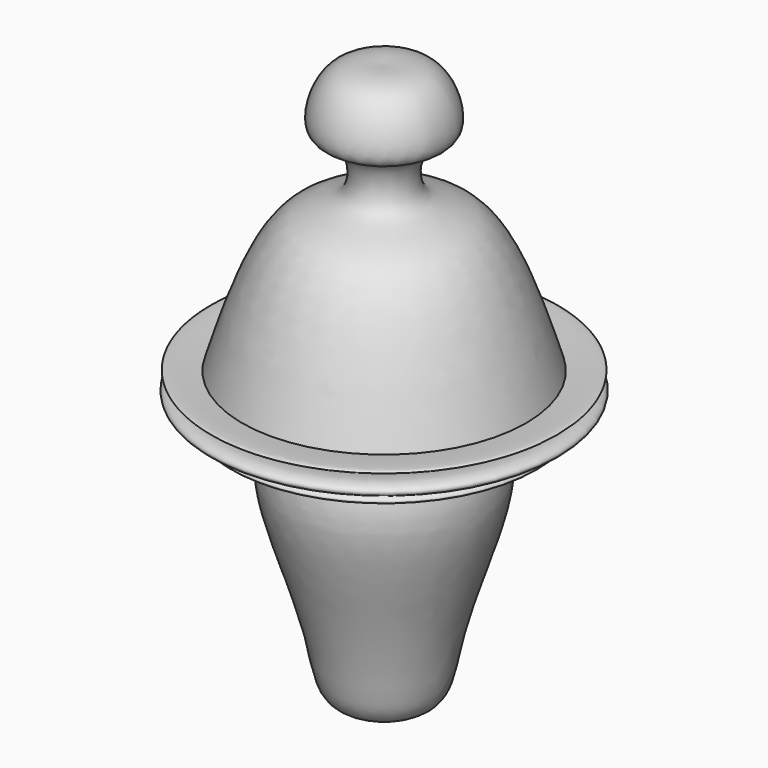
from build123d import *


with BuildPart() as f1:
    # F0 (on Front) → F1 (revolve)
    with BuildSketch(Plane.XZ):
        with BuildLine():
            add(Edge.make_bspline(
                [(0, 41.1567427218), (3.5330668812, 41.3459420691), (10.6239089344, 41.7256639181), (14.266246821, 27.9687535981), (6.1521109047, 28.353027009), (4.5741146539, 16.2073189395), (19.5301275828, 16.3728844405), (25.2049783065, -1.9720631622), (28.780579567, -13.5308196768)],
                knots=[0, 0, 0, 0, 0.1545528389, 0.3101865338, 0.4257732889, 0.5669868764, 0.7271677537, 1, 1, 1, 1], degree=3))
            Line((0, 41.1567427218), (0, -74.8384520411))
            Line((0, -74.8384520411), (2.0146379247, -74.8384520411))
            add(Edge.make_bspline(
                [(14.1024822369, 2.8754482046), (13.266327596, -0.8609134224), (11.4697258978, -8.8890380246), (20.0352655462, -22.8230190901), (21.6203963897, -35.0221482665), (12.4535671703, -57.221648171), (11.0967628773, -70.9480532796), (6.2946221674, -72.7691829911), (3.4736770183, -74.1330418649), (2.0146379247, -74.8384520411)],
                knots=[0, 0, 0, 0, 0.1444587539, 0.310390961, 0.458543739, 0.6681877394, 0.8205861904, 0.9072042354, 1, 1, 1, 1], degree=3))
            add(Edge.make_bspline(
                [(14.1024822369, 2.8754482046), (16.2920289853, 0.0796095821), (20.8849879199, -5.7851530638), (20.5382972708, -20.7703882248), (30.2678594516, -21.9598164457), (32.1443803256, -20.0547367522), (21.2972081287, -17.1491077018), (32.5462181682, -19.1781856745), (36.5247415519, -17.0328343675), (33.0856807078, -15.1701709923), (25.1795317648, -17.6136868277), (39.4264864827, -12.4591111672), (32.2732381459, -13.179218639), (28.780579567, -13.5308196768)],
                knots=[0, 0, 0, 0, 0.1252770115, 0.2627905386, 0.3662290998, 0.4047781803, 0.4969538228, 0.5943597175, 0.6649276423, 0.7286383029, 0.8049821032, 0.9047801924, 1, 1, 1, 1], degree=3))
        make_face()
    revolve(axis=Axis((0, 0, -16.8408546597), (0, 0, -1)))


solid = f1.part
